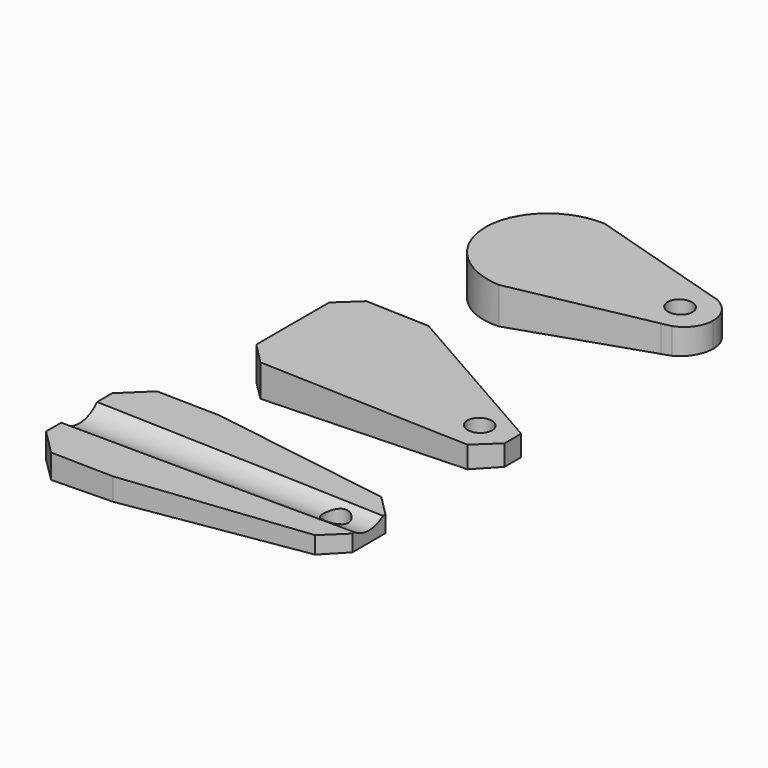
from build123d import *

# Parameters (mm, degrees)
F1_DEPTH  = 32
F2_R      = 3
F3_DEPTH  = 12.5
F4_R      = 7.3760593874
F5_DEPTH  = 72.3
F8_DEPTH  = 32
F9_R      = 3
F10_DEPTH = 12.5
F13_DEPTH = 32
F15_DEPTH = 40
F16_R     = 3
F17_DEPTH = 12.5


with BuildPart() as f1:
    # F0 (on Front) → F1 (new body)
    with BuildSketch(Plane.XZ):
        Polygon((0, -2), (0, 2), (-70, 3), (-70, -3), align=None)
    extrude(amount=F1_DEPTH)

    # F2 (on Top) → F3 (cut, symmetric)
    with BuildSketch(Plane.XY):
        Polygon((-70, -32), (-64, -32), (-70, -26), align=None)
        Polygon((-5, -26), (-49, -32), (0, -32), (0, -21), align=None)
        Polygon((-49, 0), (-5, -6), (0, -11), (0, 0), align=None)
        Polygon((-64, 0), (-70, 0), (-70, -6), align=None)
        with Locations((-8, -16)):
            Circle(F2_R)
    extrude(amount=F3_DEPTH, both=True, mode=Mode.SUBTRACT)

    # F4 (on Right) → F5 (cut)
    with BuildSketch(Plane.YZ):
        with Locations((-16, 8.0004718099)):
            Circle(F4_R)
    extrude(amount=-F5_DEPTH, mode=Mode.SUBTRACT)


with BuildPart() as f8:
    # F7 (on offset) → F8 (new body)
    with BuildSketch(Plane.XZ.offset(-20)):
        Polygon((0, 2.5), (-60, 4), (-60, -4), (0, -2.5), align=None)
    extrude(amount=-F8_DEPTH)

    # F9 (on Top) → F10 (cut, symmetric)
    with BuildSketch(Plane.XY):
        Polygon((0, 20), (0, 25), (-5, 20), align=None)
        Polygon((-60, 20), (-55, 20), (-60, 25), align=None)
        Polygon((-60, 52), (-60, 47), (-55, 52), align=None)
        Polygon((-40, 52), (0, 30), (0, 52), align=None)
        with Locations((-8, 27.5)):
            Circle(F9_R)
    extrude(amount=F10_DEPTH, both=True, mode=Mode.SUBTRACT)


with BuildPart() as f13:
    # F12 (on offset) → F13 (new body)
    with BuildSketch(Plane.XZ.offset(-72)):
        Polygon((-55, -5), (0, -3), (0, 0), (0, 3), (-55, 5), align=None)
    extrude(amount=-F13_DEPTH)

    # F14 (on Top) → F15 (cut, symmetric)
    with BuildSketch(Plane.XY):
        with BuildLine():
            Line((0, 72), (0, 88))
            ThreePointArc((0, 88), (-1.225049801, 83.8920808187), (-4.5, 81.1261364576))
            Line((-4.5, 81.1261364576), (-6.7088137589, 80.5418484641))
            Line((-6.7088137589, 80.5418484641), (-39, 72))
            Line((-39, 72), (0, 72))
        make_face()
        with BuildLine():
            Line((-6.7088137589, 95.4581515359), (-4.5, 94.8738635424))
            ThreePointArc((-4.5, 94.8738635424), (-1.225049801, 92.1079191813), (0, 88))
            Line((0, 88), (0, 104))
            Line((0, 104), (-39, 104))
            Line((-39, 104), (-6.7088137589, 95.4581515359))
        make_face()
    extrude(amount=F15_DEPTH, both=True, mode=Mode.SUBTRACT)

    # F16 (on Top) → F17 (cut, symmetric)
    with BuildSketch(Plane.XY):
        with BuildLine():
            ThreePointArc((-39, 72), (-50.313708499, 76.686291501), (-55, 88))
            Line((-55, 88), (-55, 72))
            Line((-55, 72), (-39, 72))
        make_face()
        with BuildLine():
            ThreePointArc((-55, 88), (-50.313708499, 99.313708499), (-39, 104))
            Line((-39, 104), (-55, 104))
            Line((-55, 104), (-55, 88))
        make_face()
        with Locations((-8, 88)):
            Circle(F16_R)
    extrude(amount=F17_DEPTH, both=True, mode=Mode.SUBTRACT)


solid = Compound([f1.part, f8.part, f13.part])
